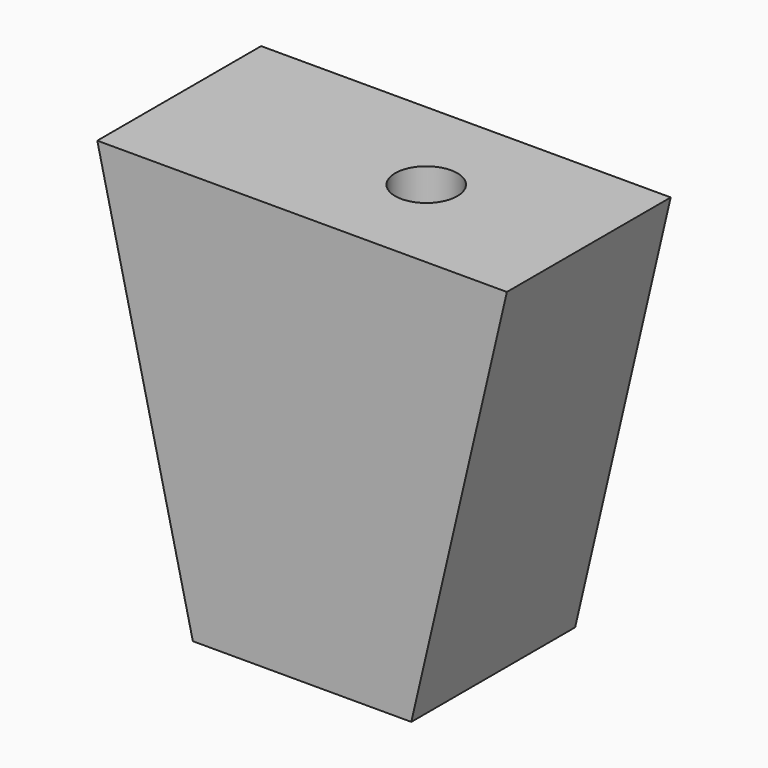
from build123d import *

# Parameters (mm, degrees)
F1_DEPTH      = 15
F1_DEPTH_BACK = 15
F2_R          = 4.554576
F3_DEPTH      = 65.6


with BuildPart() as f1:
    # F0 (on Front) → F1 (new body, two sides)
    with BuildSketch(Plane.XZ) as f1_sk:
        Polygon((30, 30), (-14.883985, 30), (-1.883985, -30), (16, -30), align=None)
        Polygon((-14.883985, 30), (-25.116015, 30), (-12.116015, -30), (-1.883985, -30), align=None)
        Polygon((-25.116015, 30), (-30, 30), (-16, -30), (-12.116015, -30), align=None)
    extrude(amount=F1_DEPTH)
    extrude(f1_sk.sketch, amount=-F1_DEPTH_BACK)

    # F2 (on face) → F3 (cut)
    with BuildSketch(Plane(origin=(0, 0, -30), x_dir=(1, 0, 0), z_dir=(0, 0, -1))):
        with Locations((6.190634, 0)):
            Circle(F2_R)
    extrude(amount=-F3_DEPTH, mode=Mode.SUBTRACT)


solid = f1.part
